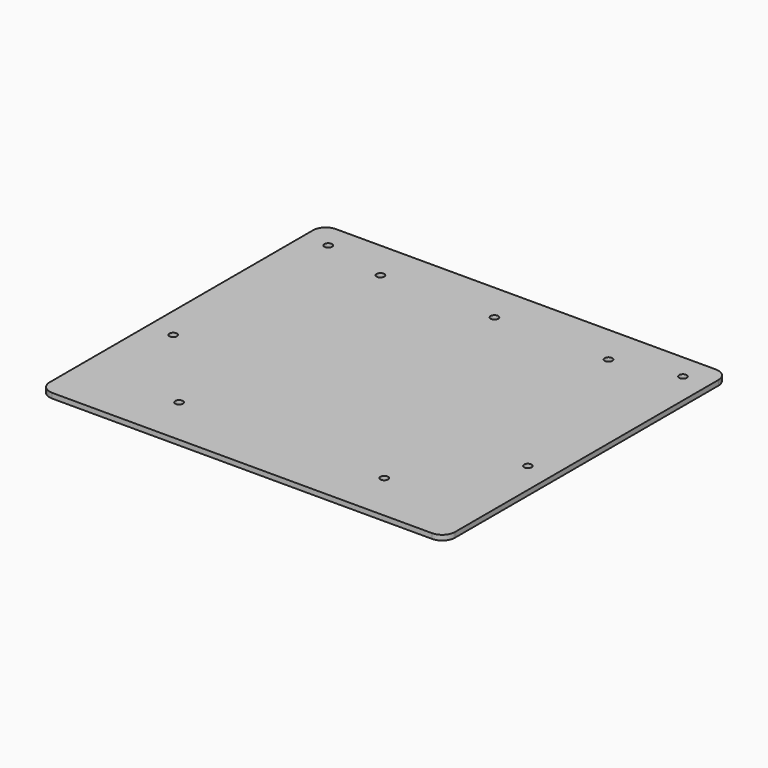
from build123d import *

# Parameters (mm, degrees)
F0_W     = 160
F0_H     = 140
F0_R     = 1.5
F1_DEPTH = 2
F2_R     = 5


with BuildPart() as f1:
    # F0 (on Top) → F1 (new body)
    with BuildSketch(Plane.XY):
        Rectangle(F0_W, F0_H)
        with Locations((-40.5, -50.5)):
            Circle(F0_R, mode=Mode.SUBTRACT)
        with Locations((-70, -16.5)):
            Circle(F0_R, mode=Mode.SUBTRACT)
        with Locations((40.5, -50.5)):
            Circle(F0_R, mode=Mode.SUBTRACT)
        with Locations((70, -16.5)):
            Circle(F0_R, mode=Mode.SUBTRACT)
        with Locations((-70, 60)):
            Circle(F0_R, mode=Mode.SUBTRACT)
        with Locations((-45, 54.5)):
            Circle(F0_R, mode=Mode.SUBTRACT)
        with Locations((0, 54.5)):
            Circle(F0_R, mode=Mode.SUBTRACT)
        with Locations((45, 54.5)):
            Circle(F0_R, mode=Mode.SUBTRACT)
        with Locations((70, 60)):
            Circle(F0_R, mode=Mode.SUBTRACT)
    extrude(amount=F1_DEPTH)

    # F2
    f2_edges = [f1.edges().sort_by_distance(p)[0] for p in [
        (80, -70, 1),
        (-80, -70, 1),
        (-80, 70, 1),
        (80, 70, 1),
    ]]
    fillet(f2_edges, radius=F2_R)


solid = f1.part
